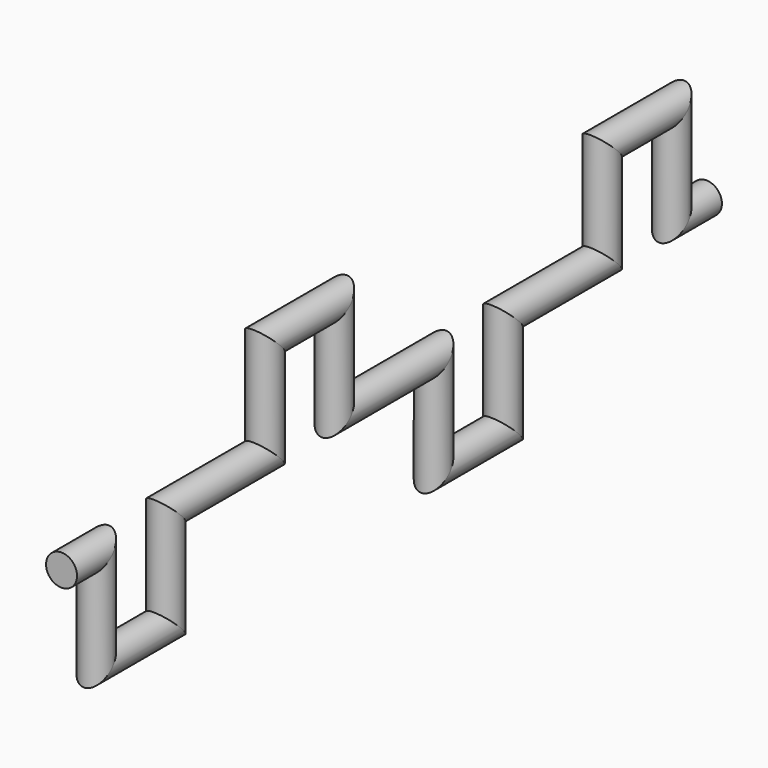
from build123d import *

# Parameters (mm, degrees)
F2_R = 12.5


with BuildPart() as f3:
    # F3: sweep along a path in F0
    with BuildLine(Plane.YZ) as f3_path:
        Line((-325, 0), (-290, 0))
        Line((-290, 0), (-290, -80))
        Line((-290, -80), (-220, -80))
        Line((-220, -80), (-220, 0))
        Line((-220, 0), (-120, 0))
        Line((-120, 0), (-120, 80))
        Line((-120, 80), (-50, 80))
        Line((-50, 80), (-50, 0))
        Line((-50, 0), (50, 0))
        Line((50, 0), (50, -80))
        Line((50, -80), (120, -80))
        Line((120, -80), (120, 0))
        Line((120, 0), (220, 0))
        Line((220, 0), (220, 80))
        Line((220, 80), (290, 80))
        Line((290, 80), (290, 0))
        Line((290, 0), (325, 0))
    # F2 (on plane+point) → F3 (sweep)
    with BuildSketch(Plane.XZ.offset(325)):
        Circle(F2_R)
    sweep(path=f3_path.line, transition=Transition.RIGHT)


solid = f3.part
